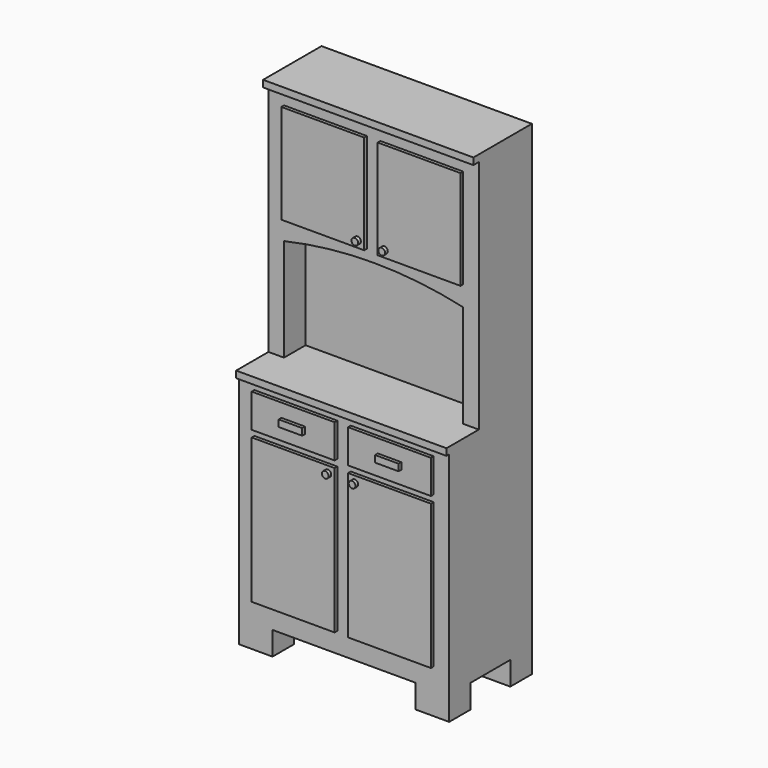
from build123d import *

# Parameters (mm, degrees)
F0_W      = 793.75
F0_H      = 402.59
F1_DEPTH  = 1828.8
F2_W      = 539.75
F2_H      = 88.9
F3_DEPTH  = 402.591
F2_W_2    = 312.801
F2_H_2    = 546.1
F2_H_3    = 127
F4_DEPTH  = 12.7
F2_H_4    = 374.65
F2_W_3    = 676.402
F2_H_5    = 387.35
F5_DEPTH  = 152.4
F6_DEPTH  = 254
F7_W      = 312.801
F7_H      = 374.65
F8_DEPTH  = 12.7
F9_W      = 186.69
F9_H      = 88.9
F10_DEPTH = 793.751
F11_W     = 88.9
F11_H     = 25.4
F11_R     = 12.7
F12_DEPTH = 12.7
F13_R     = 12.7
F14_DEPTH = 12.7
F15_W     = 793.75
F15_H     = 250.19
F15_H_2   = 25.4
F16_DEPTH = 25.4
F17_W     = 539.75
F17_H     = 186.69
F18_DEPTH = 609.6


with BuildPart() as f1:
    # F0 (on Top) → F1 (new body)
    with BuildSketch(Plane.XY):
        Rectangle(F0_W, F0_H)
    extrude(amount=F1_DEPTH)

    # F2 (on face) → F3 (cut, through all)
    with BuildSketch(Plane.XZ.offset(201.295)):
        with Locations((0, 44.45)):
            Rectangle(F2_W, F2_H)
    extrude(amount=-F3_DEPTH, mode=Mode.SUBTRACT)

    # F2 (on face) → F4 (cut)
    with BuildSketch(Plane.XZ.offset(201.295)):
        Polygon((-396.875, 0), (-269.875, 0), (-269.875, 88.9), (269.875, 88.9), (269.875, 0), (396.875, 0), (396.875, 889), (-396.875, 889), align=None)
        with Locations((-181.8005, 438.15)):
            Rectangle(F2_W_2, F2_H_2, mode=Mode.SUBTRACT)
        with Locations((-181.8005, 800.1)):
            Rectangle(F2_W_2, F2_H_3, mode=Mode.SUBTRACT)
        with Locations((181.8005, 438.15)):
            Rectangle(F2_W_2, F2_H_2, mode=Mode.SUBTRACT)
        with Locations((181.8005, 800.1)):
            Rectangle(F2_W_2, F2_H_3, mode=Mode.SUBTRACT)
    extrude(amount=-F4_DEPTH, mode=Mode.SUBTRACT)

    # F2 (on face) → F5 (cut)
    with BuildSketch(Plane.XZ.offset(201.295)):
        with BuildLine():
            Line((-396.875, 1828.8), (-396.875, 914.4))
            Line((-396.875, 914.4), (-338.201, 914.4))
            Line((-338.201, 914.4), (-338.201, 1301.75))
            ThreePointArc((-338.201, 1301.75), (0, 1339.749972), (338.201, 1301.75))
            Line((338.201, 1301.75), (338.201, 914.4))
            Line((338.201, 914.4), (396.875, 914.4))
            Line((396.875, 914.4), (396.875, 1828.8))
            Line((396.875, 1828.8), (-396.875, 1828.8))
        make_face()
        with Locations((-181.8005, 1565.275)):
            Rectangle(F2_W_2, F2_H_4, mode=Mode.SUBTRACT)
        with Locations((181.8005, 1565.275)):
            Rectangle(F2_W_2, F2_H_4, mode=Mode.SUBTRACT)
        with Locations((-181.8005, 1565.275)):
            Rectangle(F2_W_2, F2_H_4)
        with Locations((181.8005, 1565.275)):
            Rectangle(F2_W_2, F2_H_4)
        with Locations((0, 1108.075)):
            Rectangle(F2_W_3, F2_H_5)
    extrude(amount=-F5_DEPTH, mode=Mode.SUBTRACT)

    # F2 (on face) → F6 (cut)
    with BuildSketch(Plane.XZ.offset(201.295)):
        with Locations((0, 1108.075)):
            Rectangle(F2_W_3, F2_H_5)
        with BuildLine():
            ThreePointArc((338.201, 1301.75), (0, 1339.749972), (-338.201, 1301.75))
            Line((-338.201, 1301.75), (338.201, 1301.75))
        make_face()
    extrude(amount=-F6_DEPTH, mode=Mode.SUBTRACT)

    # F7 (on face) → F8 (join)
    with BuildSketch(Plane.XZ.offset(48.895)):
        with Locations((181.8005, 1565.275)):
            Rectangle(F7_W, F7_H)
        with Locations((-181.8005, 1565.275)):
            Rectangle(F7_W, F7_H)
    extrude(amount=F8_DEPTH)

    # F9 (on face) → F10 (cut, through all)
    with BuildSketch(Plane.YZ.offset(396.875)):
        with Locations((6.35, 44.45)):
            Rectangle(F9_W, F9_H)
    extrude(amount=-F10_DEPTH, mode=Mode.SUBTRACT)

    # F11 (on face) → F12 (join)
    with BuildSketch(Plane.XZ.offset(201.295)):
        with Locations((181.7116, 800.1)):
            Rectangle(F11_W, F11_H)
        with Locations((50.8, 685.8)):
            Circle(F11_R)
        with Locations((-50.8, 685.8)):
            Circle(F11_R)
        with Locations((-181.8005, 800.1)):
            Rectangle(F11_W, F11_H)
    extrude(amount=F12_DEPTH)

    # F13 (on face) → F14 (join)
    with BuildSketch(Plane.XZ.offset(61.595)):
        with Locations((-50.8, 1403.35)):
            Circle(F13_R)
        with Locations((50.8, 1403.35)):
            Circle(F13_R)
    extrude(amount=F14_DEPTH)

    # F15 (on face) → F16 (join)
    with BuildSketch(Plane.XY.offset(1828.8)):
        with Locations((0, 76.2)):
            Rectangle(F15_W, F15_H)
        with Locations((0, -61.595)):
            Rectangle(F15_W, F15_H_2)
    extrude(amount=-F16_DEPTH)

    # F17 (on face) → F18 (cut)
    with BuildSketch(Plane(origin=(0, 0, 88.9), x_dir=(1, 0, 0), z_dir=(0, 0, -1))):
        with Locations((0, -6.35)):
            Rectangle(F17_W, F17_H)
    extrude(amount=-F18_DEPTH, mode=Mode.SUBTRACT)


solid = f1.part
